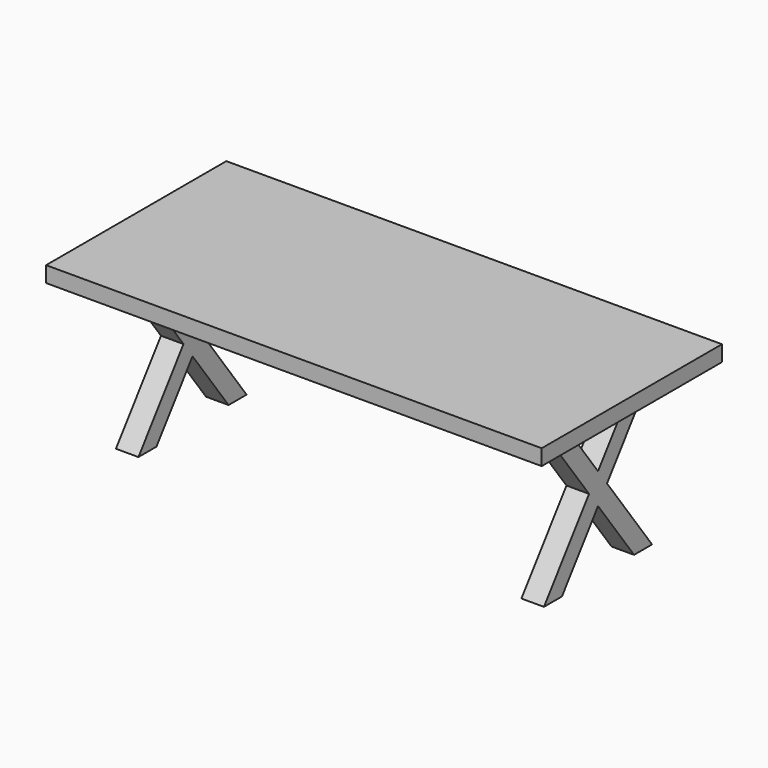
from build123d import *

# Parameters (mm, degrees)
F0_W     = 2200
F0_H     = 1000
F1_DEPTH = 70
F3_DEPTH = 2200
F4_W     = 150
F4_H     = 710.683475
F4_H_2   = 757.190578
F4_W_2   = 1700
F4_H_3   = 761.927121
F5_DEPTH = 1000.001


with BuildPart() as f1:
    # F0 (on Top) → F1 (new body)
    with BuildSketch(Plane.XY):
        Rectangle(F0_W, F0_H)
    extrude(amount=-F1_DEPTH)

    # F2 (on face) → F3 (join, through all)
    with BuildSketch(Plane.YZ.offset(1100)):
        Polygon((-200, -70), (-300, -70), (-50, -410), (-300, -750), (-200, -750), (0, -478), (200, -750), (300, -750), (50, -410), (300, -70), (200, -70), (0, -342), align=None)
    extrude(amount=-F3_DEPTH)

    # F4 (on face) → F5 (cut, through all)
    with BuildSketch(Plane(origin=(0, 500, 0), x_dir=(-1, 0, 0), z_dir=(0, 1, 0))):
        with Locations((-1025, -425.341737)):
            Rectangle(F4_W, F4_H)
        with Locations((1025, -448.595289)):
            Rectangle(F4_W, F4_H_2)
        with Locations((0, -450.96356)):
            Rectangle(F4_W_2, F4_H_3)
    extrude(amount=-F5_DEPTH, mode=Mode.SUBTRACT)


solid = f1.part
